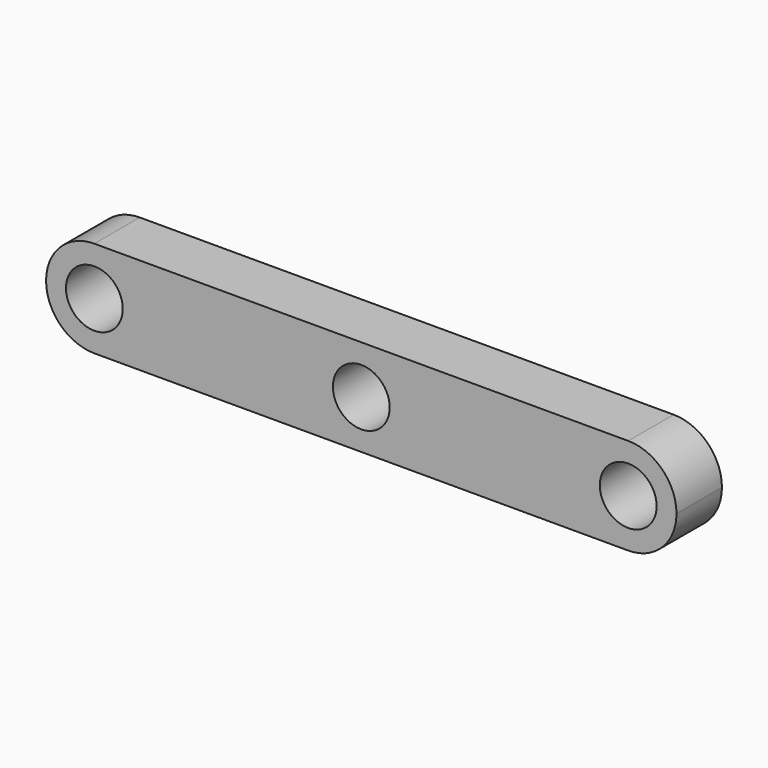
from build123d import *

# Parameters (mm, degrees)
F0_R     = 2.5
F1_DEPTH = 5


with BuildPart() as f1:
    # F0 (on Front) → F1 (new body)
    with BuildSketch(Plane.XZ):
        with BuildLine():
            ThreePointArc((0, -4.25), (3.005204, -3.005204), (4.25, 0))
            ThreePointArc((4.25, 0), (3.005204, 3.005204), (0, 4.25))
            ThreePointArc((0, 4.25), (-4.25, 0), (0, -4.25))
        make_face()
        Circle(F0_R, mode=Mode.SUBTRACT)
        with BuildLine():
            ThreePointArc((0, 4.25), (3.005204, 3.005204), (4.25, 0))
            ThreePointArc((4.25, 0), (3.005204, -3.005204), (0, -4.25))
            Line((0, -4.25), (23.5, -4.25))
            Line((23.5, -4.25), (47, -4.25))
            ThreePointArc((47, -4.25), (42.75, 0), (47, 4.25))
            Line((47, 4.25), (23.5, 4.25))
            Line((23.5, 4.25), (0, 4.25))
        make_face()
        with Locations((23.5, 0)):
            Circle(F0_R, mode=Mode.SUBTRACT)
        with BuildLine():
            ThreePointArc((51.25, 0), (50.005204, 3.005204), (47, 4.25))
            ThreePointArc((47, 4.25), (42.75, 0), (47, -4.25))
            ThreePointArc((47, -4.25), (50.005204, -3.005204), (51.25, 0))
        make_face()
        with Locations((47, 0)):
            Circle(F0_R, mode=Mode.SUBTRACT)
    extrude(amount=F1_DEPTH)


solid = f1.part
